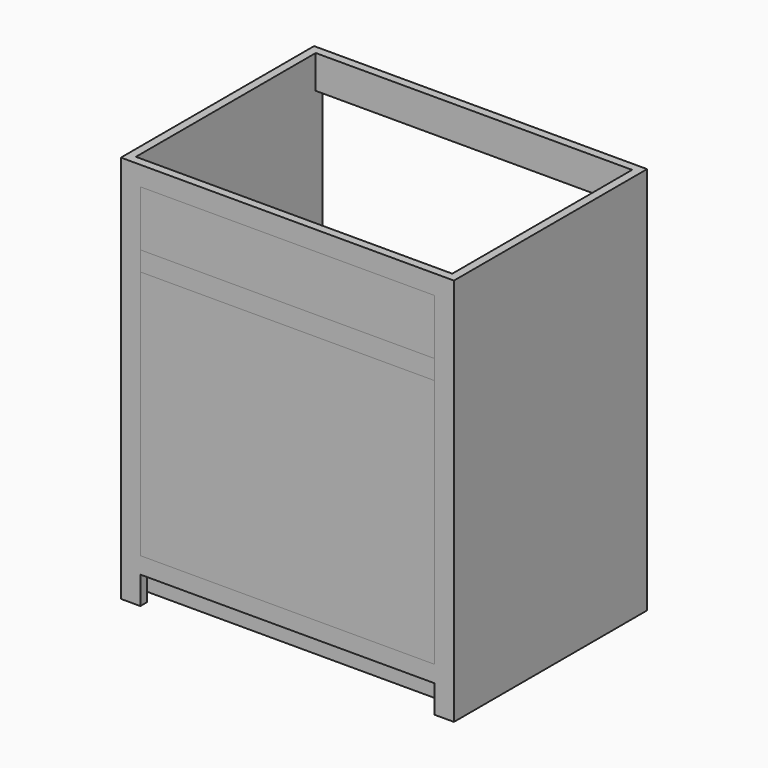
from build123d import *

# Parameters (mm, degrees)
F0_W      = 673.1
F0_H      = 38.1
F0_H_2    = 44.45
F1_DEPTH  = 19.05
F2_W      = 19.05
F2_H      = 889
F3_DEPTH  = 533.4
F4_W      = 38.1
F4_H      = 88.9
F5_DEPTH  = 723.9
F7_DEPTH  = 723.9
F8_W      = 38.1
F8_H      = 425.45
F9_DEPTH  = 88.9
F11_W     = 19.05
F11_H     = 76.2
F12_DEPTH = 723.9
F13_DEPTH = 19.05
F0_H_3    = 127
F0_H_4    = 571.5
F14_DEPTH = 19.05


with BuildPart() as f1:
    # F0 (on Front) → F1 (new body)
    with BuildSketch(Plane.XZ):
        with Locations((191.166076, 77.620111)):
            Rectangle(F0_W, F0_H)
        Polygon((-145.383924, 884.070111), (-189.833924, 884.070111), (-189.833924, -4.929889), (-145.383924, -4.929889), (-145.383924, 58.570111), (-145.383924, 96.670111), (-145.383924, 668.170111), (-145.383924, 712.620111), (-145.383924, 839.620111), align=None)
        with Locations((191.166076, 861.845111)):
            Rectangle(F0_W, F0_H_2)
        Polygon((572.166076, 884.070111), (527.716076, 884.070111), (527.716076, 839.620111), (527.716076, 712.620111), (527.716076, 668.170111), (527.716076, 96.670111), (527.716076, 58.570111), (527.716076, -4.929889), (572.166076, -4.929889), align=None)
    extrude(amount=-F1_DEPTH)

    # F2 (on face) → F3 (join)
    with BuildSketch(Plane(origin=(0, 19.05, 0), x_dir=(-1, 0, 0), z_dir=(0, 1, 0))):
        Polygon((-553.116076, 884.070111), (-572.166076, 884.070111), (-572.166076, -4.929889), (-553.116076, -4.929889), (-553.116076, 83.970111), align=None)
        with Locations((180.308924, 439.570111)):
            Rectangle(F2_W, F2_H)
    extrude(amount=F3_DEPTH)

    # F4 (on face) → F5 (join, through all)
    with BuildSketch(Plane(origin=(553.116076, 0, 0), x_dir=(0, -1, 0), z_dir=(-1, 0, 0))):
        with Locations((-533.4, 39.520111)):
            Rectangle(F4_W, F4_H)
        with Locations((-69.85, 39.520111)):
            Rectangle(F4_W, F4_H)
    extrude(amount=F5_DEPTH)

    # F6 (on face) → F7 (join, through all)
    with BuildSketch(Plane.YZ.offset(-170.783924)):
        Polygon((552.45, 103.020111), (19.05, 103.020111), (19.05, 83.970111), (50.8, 83.970111), (88.9, 83.970111), (514.35, 83.970111), (552.45, 83.970111), align=None)
    extrude(amount=F7_DEPTH)

    # F8 (on face) → F9 (join)
    with BuildSketch(Plane(origin=(0, 0, 83.970111), x_dir=(1, 0, 0), z_dir=(0, 0, -1))):
        with Locations((-151.733924, -301.625)):
            Rectangle(F8_W, F8_H)
        with Locations((534.066076, -301.625)):
            Rectangle(F8_W, F8_H)
    extrude(amount=F9_DEPTH)

    # F11 (on face) → F12 (join, through all)
    with BuildSketch(Plane(origin=(553.116076, 0, 0), x_dir=(0, -1, 0), z_dir=(-1, 0, 0))):
        with Locations((-542.925, 845.970111)):
            Rectangle(F11_W, F11_H)
    extrude(amount=F12_DEPTH)


with BuildPart() as f13:
    # F0 (on Front) → F13 (new body)
    with BuildSketch(Plane.XZ):
        with Locations((191.166076, 690.395111)):
            Rectangle(F0_W, F0_H_2)
    extrude(amount=-F13_DEPTH)


with BuildPart() as f14:
    # F0 (on Front) → F14 (new body)
    with BuildSketch(Plane.XZ):
        with Locations((191.166076, 776.120111)):
            Rectangle(F0_W, F0_H_3)
        with Locations((191.166076, 382.420111)):
            Rectangle(F0_W, F0_H_4)
    extrude(amount=-F14_DEPTH)


solid = Compound([f1.part, f13.part, f14.part])
